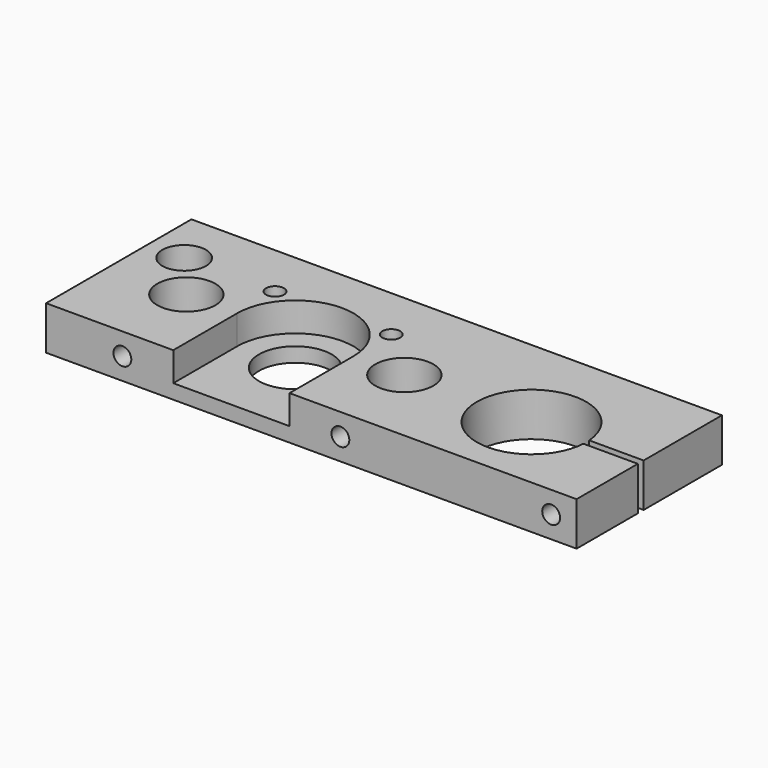
from build123d import *

# Parameters (mm, degrees)
F0_R           = 8
F0_R_2         = 10
F0_R_3         = 6
F0_R_4         = 2.455
F1_DEPTH       = 12
F2_R           = 10
F3_DEPTH       = 8
F5_D           = 4.91
F5_DEPTH       = 20
F5_TIP         = 1.4751128197
F6_D           = 4.91
F6_DEPTH       = 21
F6_TIP         = 1.4751128197
F8_D           = 6.6
F8_DEPTH       = 21
F8_CBORE_D     = 11.25
F8_CBORE_DEPTH = 6
F8_TIP         = 1.9828400428


with BuildPart() as f1:
    # F0 (on Top) → F1 (new body)
    with BuildSketch(Plane.XY):
        with BuildLine():
            Line((-73, -25), (73, -25))
            Line((73, -25), (73, -3.9333401471))
            Line((73, -3.9333401471), (58.0210311287, -3.9333401471))
            ThreePointArc((58.0210311287, -3.9333401471), (27.9501482812, -3.0668074952), (58.0121529688, -1.9333401471))
            Line((58.0121529688, -1.9333401471), (73, -1.9333401471))
            Line((73, -1.9333401471), (73, 25))
            Line((73, 25), (-73, 25))
            Line((-73, 25), (-73, -25))
        make_face()
        with Locations((-52, -3)):
            Circle(F0_R, mode=Mode.SUBTRACT)
        with Locations((-22, -3)):
            Circle(F0_R_2, mode=Mode.SUBTRACT)
        with Locations((8, -3)):
            Circle(F0_R, mode=Mode.SUBTRACT)
        with Locations((-63, 10)):
            Circle(F0_R_3, mode=Mode.SUBTRACT)
        with Locations((-38, 10)):
            Circle(F0_R_4, mode=Mode.SUBTRACT)
        with Locations((-6, 10)):
            Circle(F0_R_4, mode=Mode.SUBTRACT)
    extrude(amount=F1_DEPTH)

    # F2 (on face) → F3 (cut)
    with BuildSketch(Plane.XY.offset(12)):
        with BuildLine():
            Line((-6, -25), (-6, -3))
            ThreePointArc((-6, -3), (-22, 13), (-38, -3))
            Line((-38, -3), (-38, -25))
            Line((-38, -25), (-6, -25))
        make_face()
        with Locations((-22, -3)):
            Circle(F2_R, mode=Mode.SUBTRACT)
    extrude(amount=-F3_DEPTH, mode=Mode.SUBTRACT)

    # F5
    with Locations(Plane.XZ.offset(25)):
        with Locations((-52, 6), (8, 6)):
            Hole(F5_D / 2, depth=F5_DEPTH)
            with Locations((0, 0, -(F5_DEPTH + F5_TIP / 2))):  # 118° drill point
                Cone(0, F5_D / 2, F5_TIP, mode=Mode.SUBTRACT)

    # F6
    with Locations(Plane.XZ.offset(25)):
        with Locations((66, 6)):
            Hole(F6_D / 2, depth=F6_DEPTH)
            with Locations((0, 0, -(F6_DEPTH + F6_TIP / 2))):  # 118° drill point
                Cone(0, F6_D / 2, F6_TIP, mode=Mode.SUBTRACT)

    # F8
    with Locations(Plane(origin=(0, 25, 0), x_dir=(-1, 0, 0), z_dir=(0, 1, 0))):
        with Locations((-66, 6)):
            CounterBoreHole(F8_D / 2, F8_CBORE_D / 2, F8_CBORE_DEPTH, depth=F8_DEPTH)
            with Locations((0, 0, -(F8_DEPTH + F8_TIP / 2))):  # 118° drill point
                Cone(0, F8_D / 2, F8_TIP, mode=Mode.SUBTRACT)


solid = f1.part
